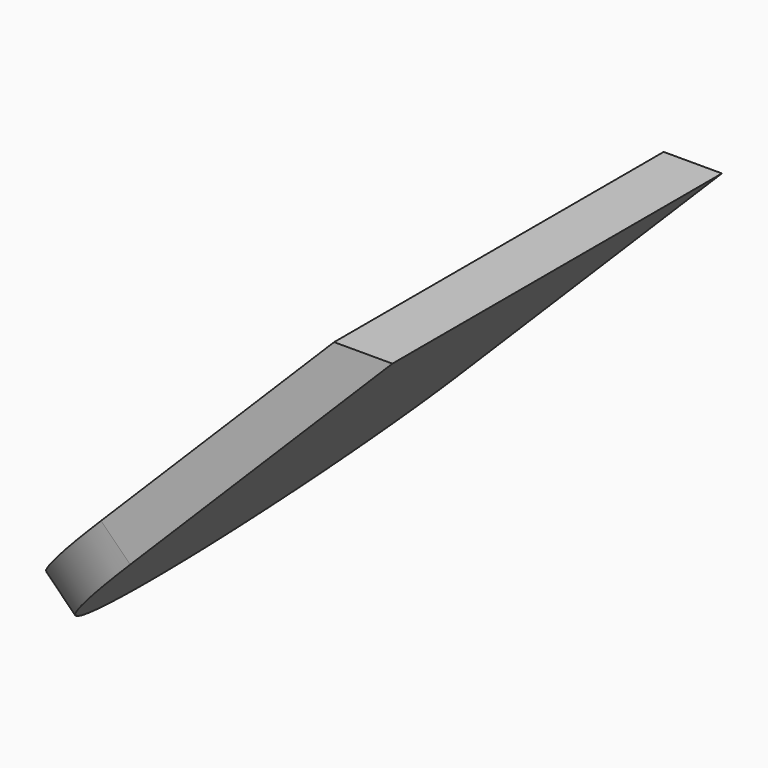
from build123d import *

# Parameters (mm, degrees)
F1_DEPTH = 15.875
F3_DEPTH = 12.701


with BuildPart() as f1:
    # F0 (on Front) → F1 (new body)
    with BuildSketch(Plane.XZ):
        Polygon((2.245064, 0), (0, 0), (-14.592916, -14.592916), (-13.470384, -15.715448), align=None)
    extrude(amount=F1_DEPTH)

    # F2 (on face) → F3 (cut, through all)
    with BuildSketch(Plane(origin=(0, 0, 0), x_dir=(0, -1, 0), z_dir=(-0.707107, 0, 0.707107))):
        with BuildLine():
            ThreePointArc((7.9375, -20.6375), (2.32484, -18.31266), (0, -12.7))
            Line((0, -12.7), (0, -20.6375))
            Line((0, -20.6375), (7.9375, -20.6375))
        make_face()
        with BuildLine():
            ThreePointArc((15.875, -12.7), (13.55016, -18.31266), (7.9375, -20.6375))
            Line((7.9375, -20.6375), (15.875, -20.6375))
            Line((15.875, -20.6375), (15.875, -12.7))
        make_face()
    extrude(amount=-F3_DEPTH, mode=Mode.SUBTRACT)


solid = f1.part
